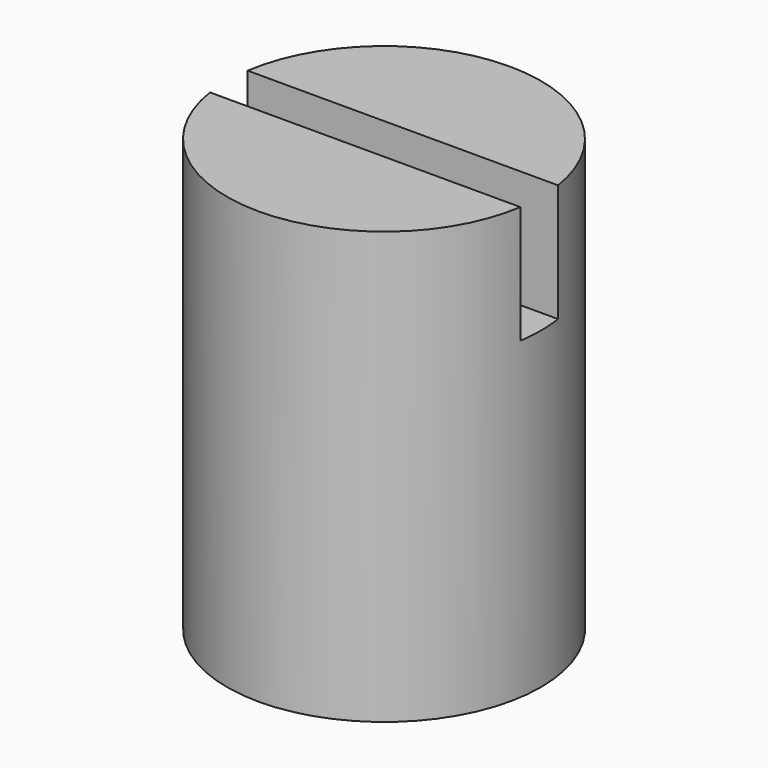
from build123d import *

# Parameters (mm, degrees)
BOX015_W          = 8.4
BOX015_H          = 1.2
BOX015_DEPTH      = 3
CYLINDER069_R     = 1.5
CYLINDER069_DEPTH = 8
CYLINDER064_R     = 4
CYLINDER064_DEPTH = 11


with BuildPart() as pick_slot:
    # Box015 → Box015 (new body)
    with BuildSketch(Plane(origin=(-4.2, -0.6, 8), x_dir=(1, 0, 0), z_dir=(0, 0, 1))):
        with Locations((4.2, 0.6)):
            Rectangle(BOX015_W, BOX015_H)
    extrude(amount=BOX015_DEPTH)


with BuildPart() as axis_hole:
    # Cylinder069 → Cylinder069 (new body)
    with BuildSketch(Plane.XY):
        Circle(CYLINDER069_R)
    extrude(amount=CYLINDER069_DEPTH)


with BuildPart() as pot_axis_ext:
    # Cylinder064 → Cylinder064 (new body)
    with BuildSketch(Plane.XY):
        Circle(CYLINDER064_R)
    extrude(amount=CYLINDER064_DEPTH)

    # Cut051: cut axis-hole
    add(axis_hole.part, mode=Mode.SUBTRACT)

    # Cut052: cut pick-slot
    add(pick_slot.part, mode=Mode.SUBTRACT)


with BuildPart() as pot_axis_ext_1:
    # Cut052 placement: moved
    add(pot_axis_ext.part.moved(Location((0, 0, 40.2))))


solid = pot_axis_ext_1.part
